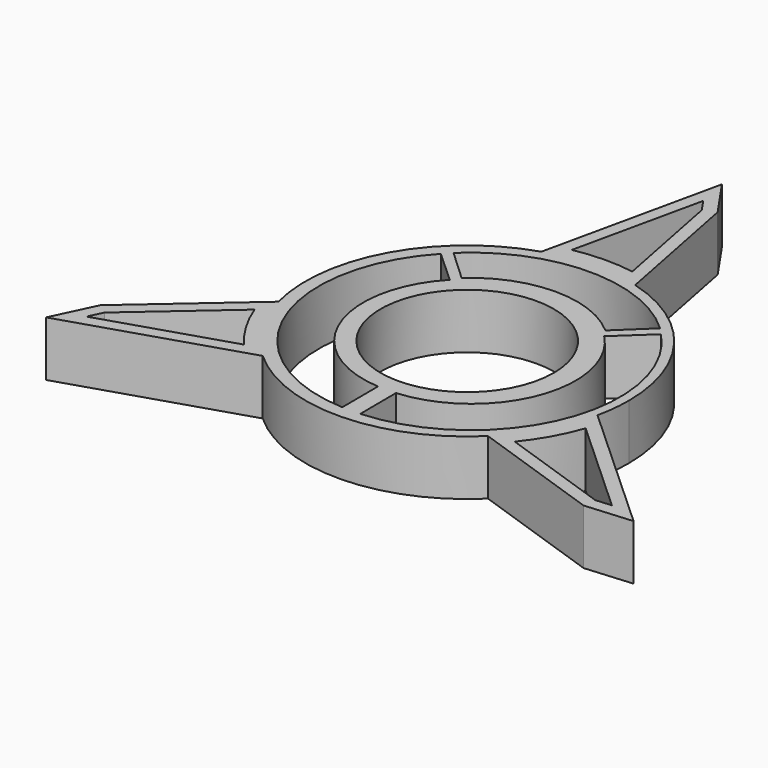
from build123d import *

# Parameters (mm, degrees)
F0_R       = 11
F1_DEPTH   = 7
F3_DEPTH   = 25
F4_SIZE2   = 11
F4_SIZE    = 6
F4_2_SIZE2 = 11
F4_2_SIZE  = 6
F4_3_SIZE2 = 11
F4_3_SIZE  = 6
F6_DEPTH   = 25


with BuildPart() as f1:
    # F0 (on Top) → F1 (new body)
    with BuildSketch(Plane.XY):
        with BuildLine():
            ThreePointArc((20.0661304609, -4.388266099), (20.4214599699, -2.2069081826), (20.5403619985, 0))
            ThreePointArc((20.5403619985, 0), (16.3588873239, 12.4214844746), (5.5169386953, 19.7855972481))
            ThreePointArc((5.5169386953, 19.7855972481), (-0.3734961981, 20.5369659789), (-6.2327153102, 19.5719117843))
            ThreePointArc((-6.2327153102, 19.5719117843), (-17.9722823534, 9.9450257937), (-19.8932991935, -5.1149895628))
            ThreePointArc((-19.8932991935, -5.1149895628), (-17.5987861554, -10.5919401852), (-13.8334151507, -15.1836456853))
            ThreePointArc((-13.8334151507, -15.1836456853), (0.3734961981, -20.5369659789), (14.3763604982, -14.6706076853))
            ThreePointArc((14.3763604982, -14.6706076853), (17.9722823534, -9.9450257937), (20.0661304609, -4.388266099))
        make_face()
        Circle(F0_R, mode=Mode.SUBTRACT)
        with BuildLine():
            ThreePointArc((-6.2327153102, 19.5719117843), (-0.3734961981, 20.5369659789), (5.5169386953, 19.7855972481))
            Line((5.5169386953, 19.7855972481), (0, 47.9250028729))
            Line((0, 47.9250028729), (-6.2327153102, 19.5719117843))
        make_face()
        with BuildLine():
            Line((41.5042699644, -23.9625014365), (20.0661304609, -4.388266099))
            ThreePointArc((20.0661304609, -4.388266099), (17.9722823534, -9.9450257937), (14.3763604982, -14.6706076853))
            Line((14.3763604982, -14.6706076853), (41.5042699644, -23.9625014365))
        make_face()
        with BuildLine():
            ThreePointArc((-13.8334151507, -15.1836456853), (-17.5987861554, -10.5919401852), (-19.8932991935, -5.1149895628))
            Line((-19.8932991935, -5.1149895628), (-41.5042699644, -23.9625014365))
            Line((-41.5042699644, -23.9625014365), (-13.8334151507, -15.1836456853))
        make_face()
    extrude(amount=F1_DEPTH)

    # F2 (on face) → F3 (cut)
    with BuildSketch(Plane.XY.offset(7)):
        with BuildLine():
            Line((-9.5540666953, 9.1768233106), (-13.7369418517, 12.9794366658))
            ThreePointArc((-13.7369418517, 12.9794366658), (-17.4606316299, -7.0968885961), (-0.7769295863, -18.868837785))
            Line((-0.7769295863, -18.868837785), (-0.8080550469, -13.1635311991))
            ThreePointArc((-0.8080550469, -13.1635311991), (-12.3077837352, -4.7833902956), (-9.5540666953, 9.1768233106))
        make_face()
        with BuildLine():
            ThreePointArc((1.5056530058, -18.8563850914), (18.0599213945, -6.9031052193), (14.1174058688, 13.1313968438))
            Line((14.1174058688, 13.1313968438), (9.9762689865, 9.2833716066))
            ThreePointArc((9.9762689865, 9.2833716066), (12.882138258, -4.6459659672), (1.4745275451, -13.1510785055))
            Line((1.4745275451, -13.1510785055), (1.5056530058, -18.8563850914))
        make_face()
        with BuildLine():
            ThreePointArc((13.2514961216, 14.0726582684), (0.156741732, 19.1941948225), (-12.8813534975, 13.9300897717))
            Line((-12.8813534975, 13.9300897717), (-8.888608776, 10.2225420997))
            ThreePointArc((-8.888608776, 10.2225420997), (0.1864346526, 13.7514732817), (9.2994411209, 10.3217675178))
            Line((9.2994411209, 10.3217675178), (13.2514961216, 14.0726582684))
        make_face()
    extrude(amount=-F3_DEPTH, mode=Mode.SUBTRACT)

    # F4
    f4_edges = [f1.edges().sort_by_distance(p)[0] for p in [
        (-41.50427, -23.962501, 3.5),
    ]]
    f4_side = f1.faces().sort_by_distance((-27.668843, -19.573074, 3.5))[0]
    chamfer(f4_edges, length=F4_SIZE, length2=F4_SIZE2, reference=f4_side)

    # F4#2
    f4_2_edges = [f1.edges().sort_by_distance(p)[0] for p in [
        (0, 47.925003, 3.5),
    ]]
    f4_2_side = f1.faces().sort_by_distance((-3.116358, 33.748457, 3.5))[0]
    chamfer(f4_2_edges, length=F4_2_SIZE, length2=F4_2_SIZE2, reference=f4_2_side)

    # F4#3
    f4_3_edges = [f1.edges().sort_by_distance(p)[0] for p in [
        (41.50427, -23.962501, 3.5),
    ]]
    f4_3_side = f1.faces().sort_by_distance((30.7852, -14.175384, 3.5))[0]
    chamfer(f4_3_edges, length=F4_3_SIZE, length2=F4_3_SIZE2, reference=f4_3_side)

    # F5 (on face) → F6 (cut)
    with BuildSketch(Plane.XY.offset(7)):
        with BuildLine():
            ThreePointArc((-4.1133450785, 21.7607795339), (-0.3226835167, 22.146741457), (3.4775948856, 21.8711226117))
            Line((3.4775948856, 21.8711226117), (0.6102930376, 36.4959307173))
            Line((0.6102930376, 36.4959307173), (-0.515505202, 38.1276239452))
            Line((-0.515505202, 38.1276239452), (-4.1133450785, 21.7607795339))
        make_face()
        with BuildLine():
            Line((-20.6797452338, -7.9238757909), (-31.9115496548, -17.7194360843))
            Line((-31.9115496548, -17.7194360843), (-32.7617383215, -19.5102525733))
            Line((-32.7617383215, -19.5102525733), (-16.7887153433, -14.4426510995))
            ThreePointArc((-16.7887153433, -14.4426510995), (-19.0182989544, -11.3528228513), (-20.6797452338, -7.9238757909))
        make_face()
        with BuildLine():
            Line((17.2021503482, -13.9472468209), (31.3012566171, -18.776494633))
            Line((31.3012566171, -18.776494633), (33.2772435235, -18.6173713719))
            Line((33.2772435235, -18.6173713719), (20.9020604218, -7.3181284344))
            ThreePointArc((20.9020604218, -7.3181284344), (19.3409824711, -10.7939186057), (17.2021503482, -13.9472468209))
        make_face()
    extrude(amount=-F6_DEPTH, mode=Mode.SUBTRACT)


solid = f1.part
